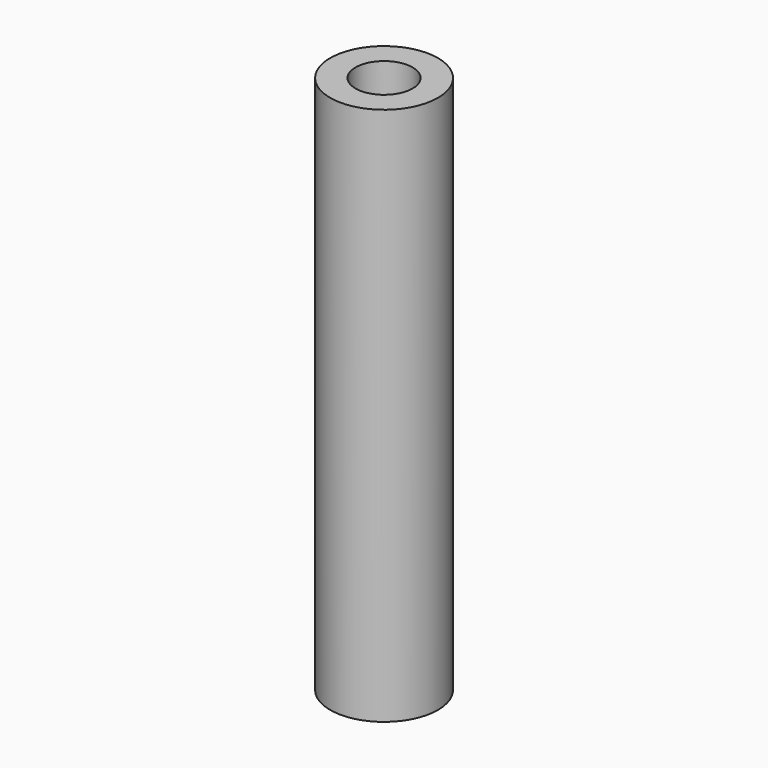
from build123d import *


with BuildPart() as part:
    # Sketch → Revolution (revolve)
    with BuildSketch(Plane.XZ):
        Polygon((0, 70), (0, 0), (10, 0), (10, 100), (5.3, 100), (5.3, 70), align=None)
    revolve(axis=Axis((0, 0, 0), (0, 0, 1)))


solid = part.part
